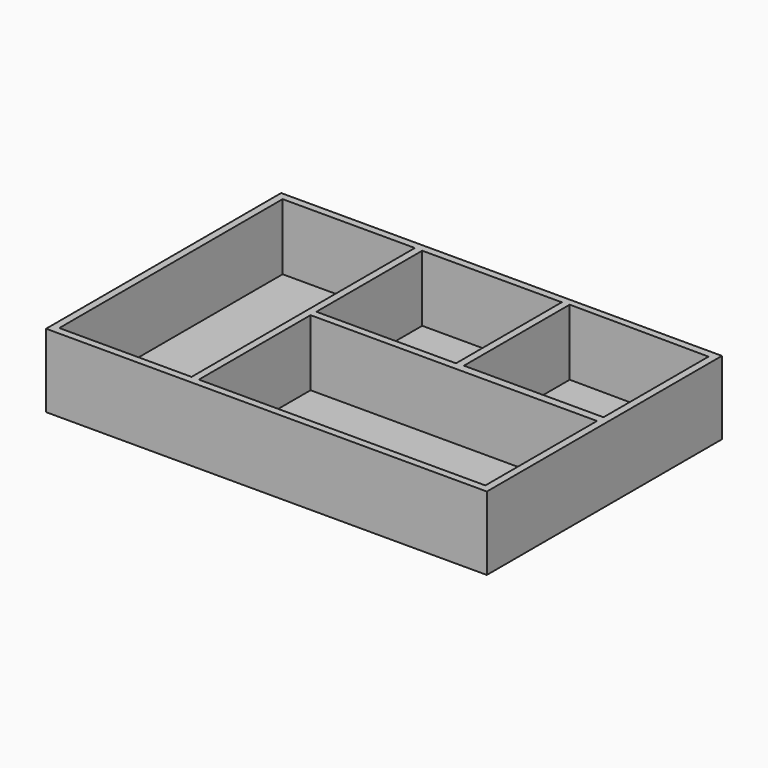
from build123d import *

# Parameters (mm, degrees)
F0_W     = 152.4
F0_H     = 101.6
F1_DEPTH = 25.4
F3_DEPTH = 22.86
F5_DEPTH = 22.86
F7_DEPTH = 22.86
F9_DEPTH = 22.86


with BuildPart() as f1:
    # F0 (on Top) → F1 (new body)
    with BuildSketch(Plane.XY):
        with Locations((76.2, 50.8)):
            Rectangle(F0_W, F0_H)
    extrude(amount=F1_DEPTH)

    # F2 (on face) → F3 (cut)
    with BuildSketch(Plane.XY.offset(25.4)):
        Polygon((22.016909, 99.06), (2.54, 99.06), (2.54, 62.21069), (2.54, 2.54), (48.26, 2.54), (48.26, 99.06), align=None)
    extrude(amount=-F3_DEPTH, mode=Mode.SUBTRACT)

    # F4 (on face) → F5 (cut)
    with BuildSketch(Plane.XY.offset(25.4)):
        Polygon((67.743346, 99.06), (50.8, 99.06), (50.8, 76.2), (50.8, 53.34), (99.06, 53.34), (99.06, 99.06), align=None)
    extrude(amount=-F5_DEPTH, mode=Mode.SUBTRACT)

    # F6 (on face) → F7 (cut)
    with BuildSketch(Plane.XY.offset(25.4)):
        Polygon((74.93, 50.8), (50.8, 50.8), (50.8, 26.67), (50.8, 2.54), (149.86, 2.54), (149.86, 50.8), align=None)
    extrude(amount=-F7_DEPTH, mode=Mode.SUBTRACT)

    # F8 (on face) → F9 (cut)
    with BuildSketch(Plane.XY.offset(25.4)):
        Polygon((149.86, 98.991269), (101.601067, 99.31215), (101.601067, 53.59215), (149.86, 53.59215), align=None)
    extrude(amount=-F9_DEPTH, mode=Mode.SUBTRACT)


solid = f1.part
